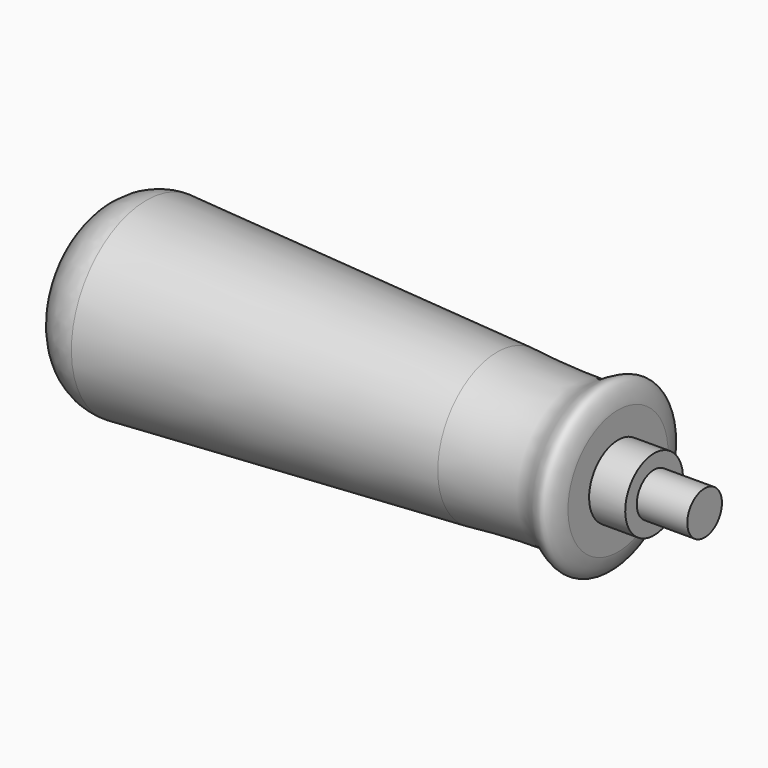
from build123d import *

# Parameters (mm, degrees)
F2_W     = 7.5
F2_H     = 3
F4_R     = 4.5
F5_DEPTH = 28


with BuildPart() as f1:
    # F0 (on Front) → F1 (revolve)
    with BuildSketch(Plane.XZ):
        with BuildLine():
            Line((0, 8.5), (0, 0))
            Line((0, 0), (99, 0))
            Line((99, 0), (99, 4.5))
            Line((99, 4.5), (109, 4.5))
            Line((109, 4.5), (109, 13))
            add(Edge.make_bspline(
                [(83.8865475992, 15.4316859678), (88.5158872294, 14.9167269688), (97.6358063587, 14.6068558665), (102.0605762533, 14.5738254673), (107.6286679447, 19.3172361582), (108.9202539561, 14.1905625311), (109, 13)],
                knots=[0, 0, 0, 0, 0.3607353426, 0.5717800166, 0.7909805406, 1, 1, 1, 1], degree=3))
            Line((83.8865475992, 15.4316859678), (11, 19.5))
            ThreePointArc((11, 19.5), (3.2218254069, 16.2781745931), (0, 8.5))
        make_face()
    revolve(axis=Axis((130.4699642658, 0, 0), (1, 0, 0)))


with BuildPart() as f3:
    # F2 (on Front) → F3 (revolve)
    with BuildSketch(Plane.XZ):
        with Locations((112.75, 6)):
            Rectangle(F2_W, F2_H)
    revolve(axis=Axis((130.4699642658, 0, 0), (1, 0, 0)))


with BuildPart() as f5:
    # F4 (on face) → F5 (new body)
    with BuildSketch(Plane.YZ.offset(99)):
        Circle(F4_R)
    extrude(amount=F5_DEPTH)


solid = Compound([f1.part, f3.part, f5.part])
